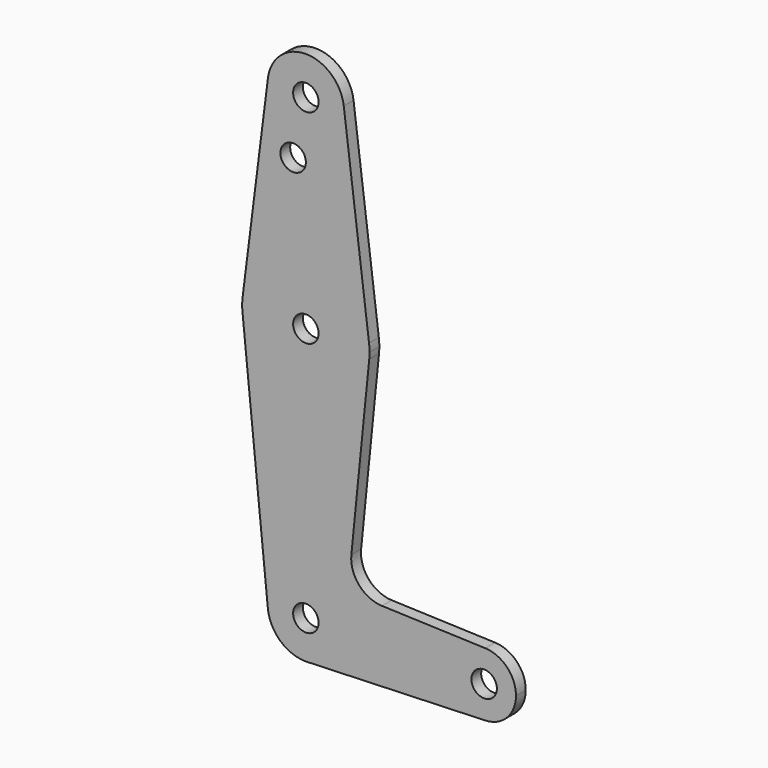
from build123d import *

# Parameters (mm, degrees)
F0_R     = 3.175
F1_DEPTH = 3.048


with BuildPart() as f1:
    # F0 (on Front) → F1 (new body)
    with BuildSketch(Plane.XZ):
        with BuildLine():
            ThreePointArc((-37.9931179648, -64.470788025), (-37.700269635, -64.4648587567), (-37.4077420848, -64.4499278216))
            Line((-37.4077420848, -64.4499278216), (-37.9931179648, -64.470788025))
        make_face()
        with BuildLine():
            ThreePointArc((-53.7899714037, 10.5384741277), (-53.91448313, 8.5540991277), (-53.7899714037, 6.5697241277))
            Line((-53.7899714037, 6.5697241277), (-53.7899714037, 10.5384741277))
        make_face()
        with BuildLine():
            ThreePointArc((-28.5891901658, 60.5447241277), (-38.03948313, 68.8790991277), (-47.4897760942, 60.5447241277))
            ThreePointArc((-47.4897760942, 60.5447241277), (-38.635966372, 49.8477942334), (-28.51448313, 59.3540991277))
            ThreePointArc((-28.51448313, 59.3540991277), (-28.5331782357, 59.9505823696), (-28.5891901658, 60.5447241277))
        make_face()
        with Locations((-38.03948313, 59.3540991277)):
            Circle(F0_R, mode=Mode.SUBTRACT)
        with BuildLine():
            ThreePointArc((6.6929221446, -47.0134262578), (-1.5269831288, -54.9460372777), (6.6931947825, -62.878365776))
            ThreePointArc((6.6931947825, -62.878365776), (12.1222443749, -60.4577132022), (14.34801687, -54.9459008723))
            ThreePointArc((14.34801687, -54.9459008723), (12.1221496539, -49.4339903876), (6.6929221446, -47.0134262578))
        make_face()
        with Locations((6.41051687, -54.9459008723)):
            Circle(F0_R, mode=Mode.SUBTRACT)
        with BuildLine():
            ThreePointArc((-37.4077420848, -64.4499278216), (-31.0845223661, -61.4539071548), (-28.51448313, -54.9459008723))
            ThreePointArc((-28.51448313, -54.9459008723), (-38.5159503895, -45.4328254521), (-47.5168146682, -55.8976423894))
            ThreePointArc((-47.5168146682, -55.8976423894), (-44.4121190214, -62.0251054036), (-37.9931179648, -64.470788025))
            Line((-37.9931179648, -64.470788025), (-37.4077420848, -64.4499278216))
        make_face()
        with Locations((-38.03948313, -54.9459008723)):
            Circle(F0_R, mode=Mode.SUBTRACT)
        with BuildLine():
            ThreePointArc((-47.5168146682, -55.8976423894), (-38.5159503895, -45.4328254521), (-28.51448313, -54.9459008723))
            ThreePointArc((-28.51448313, -54.9459008723), (-31.0845223661, -61.4539071548), (-37.4077420848, -64.4499278216))
            Line((-37.4077420848, -64.4499278216), (6.6931947825, -62.878365776))
            ThreePointArc((6.6931947825, -62.878365776), (-1.5269831288, -54.9460372777), (6.6929221446, -47.0134262578))
            Line((6.6929221446, -47.0134262578), (-19.071155262, -46.0961952918))
            ThreePointArc((-19.071155262, -46.0961952918), (-24.7782791475, -43.3784379765), (-26.6986472615, -37.3560087178))
            Line((-26.6986472615, -37.3560087178), (-22.2440575659, 6.9665991277))
            ThreePointArc((-22.2440575659, 6.9665991277), (-37.8397776433, -7.3196446878), (-53.7899714037, 6.5697241277))
            Line((-53.7899714037, 6.5697241277), (-47.5168146682, -55.8976423894))
        make_face()
        with BuildLine():
            Line((-53.7899714037, 10.5384741277), (-53.7899714037, 6.5697241277))
            ThreePointArc((-53.7899714037, 6.5697241277), (-37.8397776433, -7.3196446878), (-22.2440575659, 6.9665991277))
            ThreePointArc((-22.2440575659, 6.9665991277), (-22.1843892194, 7.7593525736), (-22.16448313, 8.5540991277))
            ThreePointArc((-22.16448313, 8.5540991277), (-22.1956416396, 9.5482378643), (-22.2889948563, 10.5384741277))
            ThreePointArc((-22.2889948563, 10.5384741277), (-38.03948313, 24.4290991277), (-53.7899714037, 10.5384741277))
        make_face()
        with Locations((-38.03948313, 8.5540991277)):
            Circle(F0_R, mode=Mode.SUBTRACT)
        with BuildLine():
            Line((-47.4897760942, 60.5447241277), (-53.7899714037, 10.5384741277))
            ThreePointArc((-53.7899714037, 10.5384741277), (-38.03948313, 24.4290991277), (-22.2889948563, 10.5384741277))
            Line((-22.2889948563, 10.5384741277), (-28.5891901658, 60.5447241277))
            ThreePointArc((-28.5891901658, 60.5447241277), (-28.5331782357, 59.9505823696), (-28.51448313, 59.3540991277))
            ThreePointArc((-28.51448313, 59.3540991277), (-38.635966372, 49.8477942334), (-47.4897760942, 60.5447241277))
        make_face()
        with Locations((-41.21448313, 45.0792991277)):
            Circle(F0_R, mode=Mode.SUBTRACT)
    extrude(amount=F1_DEPTH)


solid = f1.part
